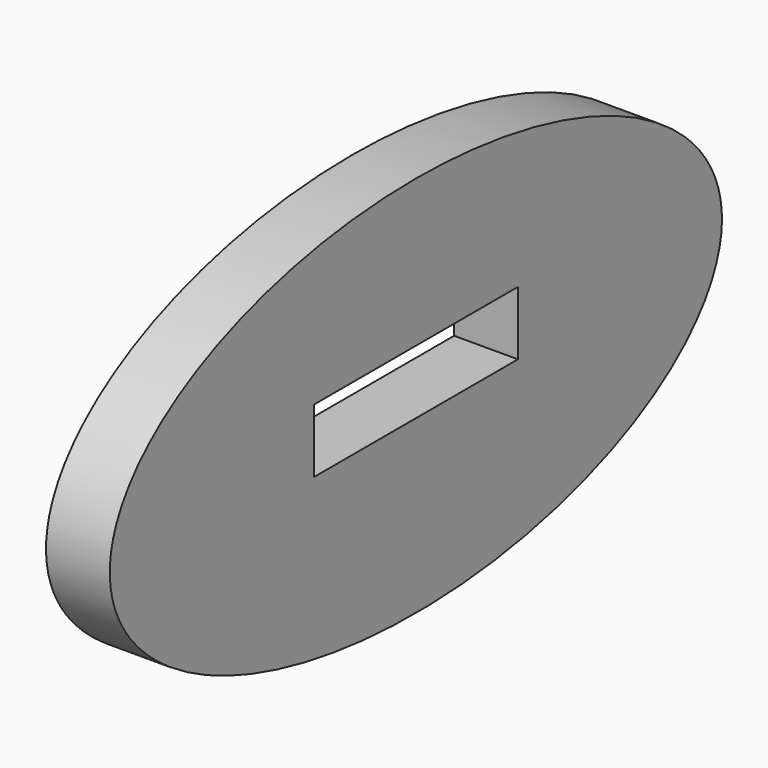
from build123d import *

# Parameters (mm, degrees)
F0_W     = 50.8
F0_H     = 12.7
F1_DEPTH = 12.7


with BuildPart() as f1:
    # F0 (on Right) → F1 (new body)
    with BuildSketch(Plane.YZ):
        with BuildLine():
            add(Edge.make_bspline(
                [(0, 35.683209), (-131.982272, 35.683209), (-65.991136, -21.466791), (0, -78.616791), (65.991136, -21.466791), (131.982272, 35.683209), (0, 35.683209)],
                knots=[4.712389, 4.712389, 4.712389, 6.806784, 6.806784, 8.901179, 8.901179, 10.995574, 10.995574, 10.995574], degree=2, weights=[1, 0.5, 1, 0.5, 1, 0.5, 1]))
        make_face()
        Rectangle(F0_W, F0_H, mode=Mode.SUBTRACT)
    extrude(amount=F1_DEPTH)


solid = f1.part
